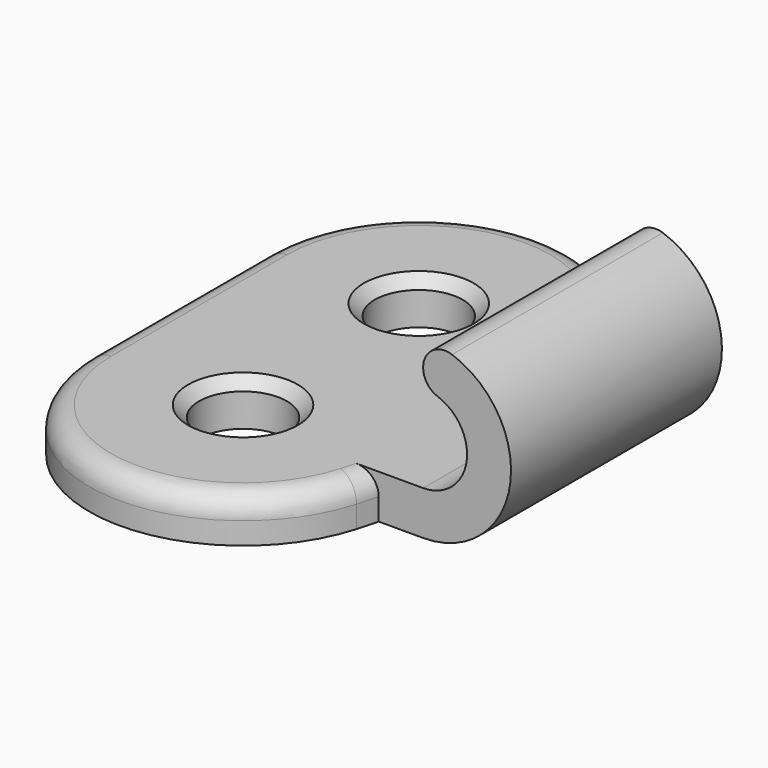
from build123d import *

# Parameters (mm, degrees)
SKETCH_R             = 2
PAD_DEPTH            = 2
PAD001_DEPTH         = 6
CHAMFER_SIZE         = 0.5
FILLET_R             = 0.99
FILLET001_R          = 1
BODY_PLACEMENT_ANGLE = 180


with BuildPart() as part:
    # Sketch → Pad (new body)
    with BuildSketch(Plane.XY):
        with BuildLine():
            ThreePointArc((7, 5), (0.981931, 11.930787), (-6.724518, 6.944444))
            ThreePointArc((-6.724518, 6.944444), (-7.708384, 0), (-6.724518, -6.944444))
            ThreePointArc((-6.724518, -6.944444), (0.981931, -11.930787), (7, -5))
            Line((7, -5), (7, 5))
        make_face()
        with Locations((0, 5)):
            Circle(SKETCH_R, mode=Mode.SUBTRACT)
        with Locations((0, -5)):
            Circle(SKETCH_R, mode=Mode.SUBTRACT)
    extrude(amount=PAD_DEPTH)

    # Sketch001 → Pad001 (join, symmetric)
    with BuildSketch(Plane.XZ):
        with BuildLine():
            Line((-6.724518, 2), (-9, 2))
            ThreePointArc((-9, 6), (-11, 4), (-9, 2))
            Line((-9, 8), (-9, 6))
            ThreePointArc((-9, 8), (-13, 4), (-9, 0))
            Line((-6.724518, 0), (-9, 0))
            Line((-6.724518, 2), (-6.724518, 0))
        make_face()
    extrude(amount=PAD001_DEPTH, both=True)

    # Chamfer
    chamfer_edges = [part.edges().sort_by_distance(p)[0] for p in [
        (-2, -5, 2),
        (-2, 5, 2),
    ]]
    chamfer(chamfer_edges, length=CHAMFER_SIZE)

    # Fillet
    fillet_edges = [part.edges().sort_by_distance(p)[0] for p in [
        (-9, 0, 8),
        (-9, 0, 6),
    ]]
    fillet(fillet_edges, radius=FILLET_R)

    # Fillet001
    fillet001_edges = [part.edges().sort_by_distance(p)[0] for p in [
        (-6.855729, 6.47346, 2),
        (0.981931, 11.930787, 2),
        (7, 0, 2),
        (0.981931, -11.930787, 2),
        (-6.855729, -6.47346, 2),
    ]]
    fillet(fillet001_edges, radius=FILLET001_R)


with BuildPart() as part_1:
    # Body placement: moved
    add(part.part.moved(Location((-26, -38, 0))).rotate(Axis((-26, -38, 0), (0, 0, 1)), BODY_PLACEMENT_ANGLE))


solid = part_1.part
